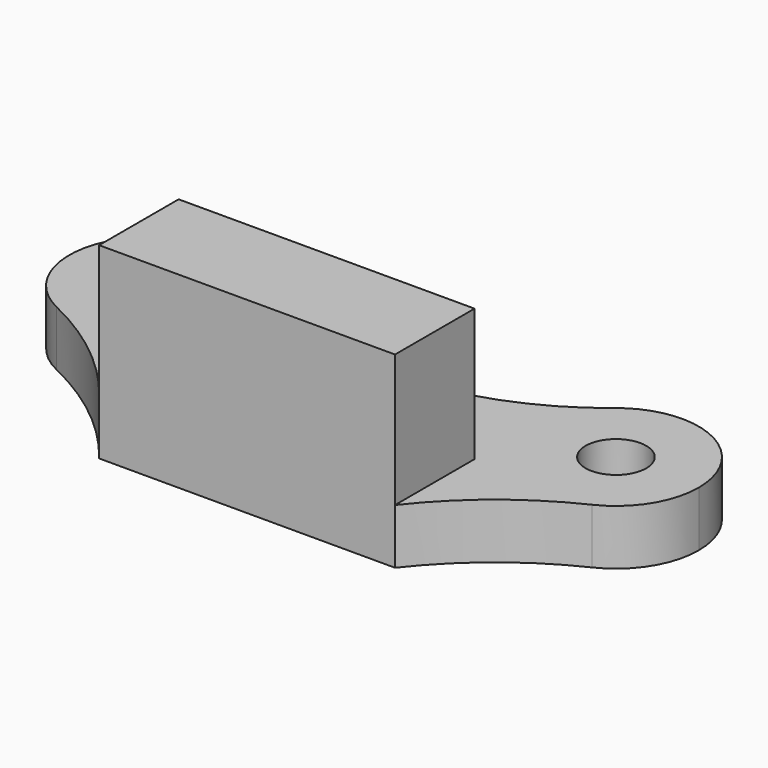
from build123d import *

# Parameters (mm, degrees)
F0_R     = 2.75
F1_DEPTH = 5
F3_DEPTH = 12


with BuildPart() as f1:
    # F0 (on Top) → F1 (new body)
    with BuildSketch(Plane.XY):
        with BuildLine():
            ThreePointArc((-16.248869, 5.803167), (-14.221966, 3.210648), (-13.5, 0))
            ThreePointArc((-13.5, 0), (-17.001528, -6.345252), (-24.236593, -6.765683))
            ThreePointArc((-24.236593, -6.765683), (-18.307775, -10.501181), (-13.396906, -15.5))
            Line((-13.396906, -15.5), (13.396906, -15.5))
            ThreePointArc((13.396906, -15.5), (18.307775, -10.501181), (24.236593, -6.765683))
            ThreePointArc((24.236593, -6.765683), (14.670114, -4.022753), (16.248869, 5.803167))
            ThreePointArc((16.248869, 5.803167), (0, 0), (-16.248869, 5.803167))
        make_face()
        with BuildLine():
            ThreePointArc((-24.236593, -6.765683), (-17.001528, -6.345252), (-13.5, 0))
            ThreePointArc((-13.5, 0), (-14.221966, 3.210648), (-16.248869, 5.803167))
            ThreePointArc((-16.248869, 5.803167), (-27.329886, 4.022753), (-24.236593, -6.765683))
        make_face()
        with Locations((-21, 0)):
            Circle(F0_R, mode=Mode.SUBTRACT)
        with BuildLine():
            ThreePointArc((28.5, 0), (24.210648, 6.778034), (16.248869, 5.803167))
            ThreePointArc((16.248869, 5.803167), (14.670114, -4.022753), (24.236593, -6.765683))
            ThreePointArc((24.236593, -6.765683), (27.345252, -3.998472), (28.5, 0))
        make_face()
        with Locations((21, 0)):
            Circle(F0_R, mode=Mode.SUBTRACT)
    extrude(amount=F1_DEPTH)

    # F2 (on face) → F3 (join)
    with BuildSketch(Plane.XY.offset(5)):
        Polygon((13.396906, -6.5), (0, -6.5), (-13.396906, -6.5), (-13.396906, -15.5), (13.396906, -15.5), align=None)
    extrude(amount=F3_DEPTH)


solid = f1.part
